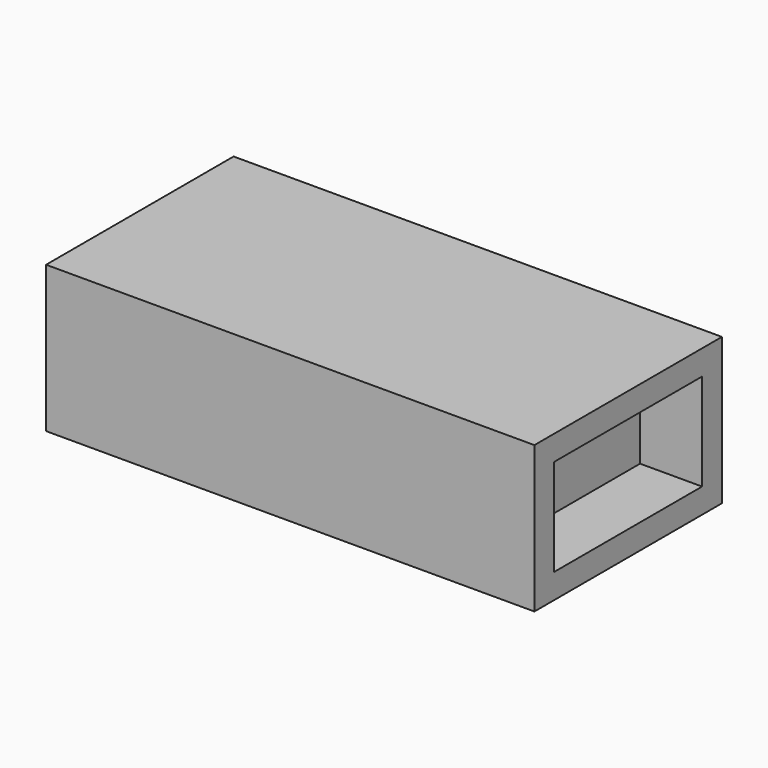
from build123d import *

# Parameters (mm, degrees)
F1_DEPTH = 15
F2_W     = 18.92
F2_H     = 9.92
F3_DEPTH = 6.35


with BuildPart() as f1:
    # F0 (on Top) → F1 (new body)
    with BuildSketch(Plane.XY):
        Polygon((-25, 12), (-25, 0), (-25, -12), (25, -12), (25, 0), (25, 12), align=None)
    extrude(amount=F1_DEPTH)

    # F2 (on face) → F3 (cut)
    with BuildSketch(Plane.YZ.offset(25)):
        with Locations((0, 7.5)):
            Rectangle(F2_W, F2_H)
    extrude(amount=-F3_DEPTH, mode=Mode.SUBTRACT)


solid = f1.part
